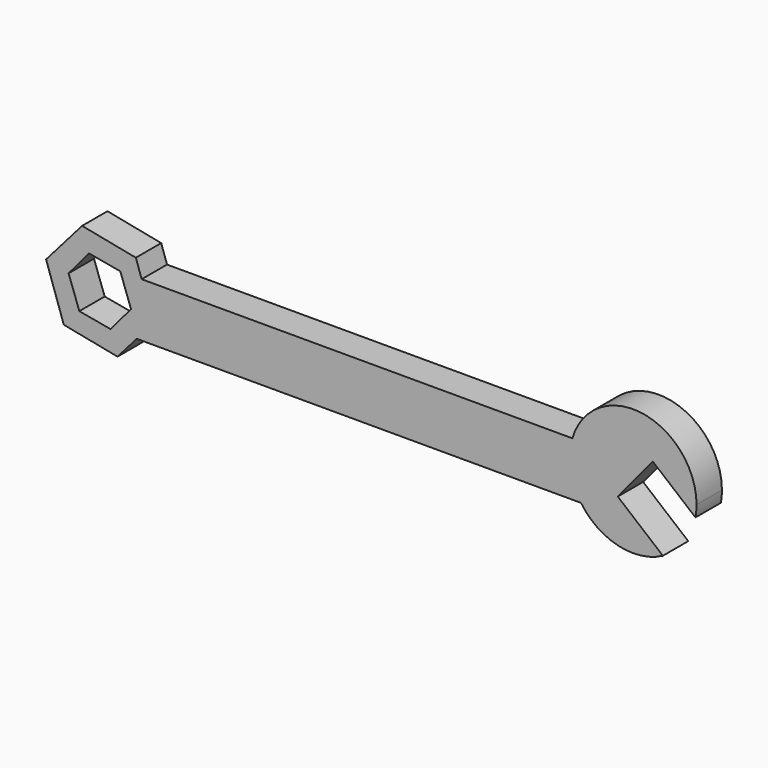
from build123d import *

# Parameters (mm, degrees)
F1_DEPTH = 6.35


with BuildPart() as f1:
    # F0 (on Front) → F1 (new body)
    with BuildSketch(Plane.XZ):
        with BuildLine():
            Line((-19.3468277683, 40.6265136781), (69.6434634393, 40.6265136781))
            ThreePointArc((69.6434634393, 40.6265136781), (67.5490069557, 45.8423952186), (67.910858524, 51.4514264761))
            Line((67.910858524, 51.4514264761), (-18.3573034658, 51.4514264761))
            Line((-18.3573034658, 51.4514264761), (-15.9769321031, 44.4845762834))
            Line((-15.9769321031, 44.4845762834), (-19.3468277683, 40.6265136781))
        make_face()
        with BuildLine():
            ThreePointArc((67.910858524, 51.4514264761), (67.5490069557, 45.8423952186), (69.6434634393, 40.6265136781))
            Line((69.6434634393, 40.6265136781), (77.0074423358, 40.6265136781))
            Line((77.0074423358, 40.6265136781), (77.0074423358, 44.1368481523))
            Line((77.0074423358, 44.1368481523), (77.0074423358, 51.4514264761))
            Line((77.0074423358, 51.4514264761), (67.910858524, 51.4514264761))
        make_face()
        with BuildLine():
            Line((84.0333278613, 52.6007085352), (92.5724713831, 45.5123301647))
            ThreePointArc((92.5724713831, 45.5123301647), (92.7350449014, 46.6759296035), (92.7893911141, 47.8495736261))
            ThreePointArc((92.7893911141, 47.8495736261), (81.9090938517, 60.4185307009), (67.910858524, 51.4514264761))
            Line((67.910858524, 51.4514264761), (77.0074423358, 51.4514264761))
            Line((77.0074423358, 51.4514264761), (77.0074423358, 44.1368481523))
            Line((77.0074423358, 44.1368481523), (84.0333278613, 52.6007085352))
        make_face()
        with BuildLine():
            ThreePointArc((69.6434634393, 40.6265136781), (77.0854951634, 35.5099379298), (86.0465752901, 36.6334264849))
            Line((86.0465752901, 36.6334264849), (77.0074423358, 44.1368481523))
            Line((77.0074423358, 44.1368481523), (77.0074423358, 40.6265136781))
            Line((77.0074423358, 40.6265136781), (69.6434634393, 40.6265136781))
        make_face()
        Polygon((-24.5925576642, 40.6265136781), (-19.3468277683, 40.6265136781), (-15.9769321031, 44.4845762834), (-18.3573034658, 51.4514264761), (-22.6377525802, 51.4514264761), (-20.4902719633, 45.4746664564), align=None)
        Polygon((-23.193330976, 36.2228016168), (-19.3468277683, 40.6265136781), (-24.5925576642, 40.6265136781), (-30.8423239821, 41.7551209196), (-32.989804599, 47.7318809393), (-28.8875188981, 52.5800337175), (-22.6377525802, 51.4514264761), (-18.3573034658, 51.4514264761), (-19.5236394083, 54.8650483644), (-30.2867455863, 56.9837457788), (-37.5031444592, 48.7219711123), (-33.956437154, 38.3414990313), align=None)
    extrude(amount=F1_DEPTH)


solid = f1.part
